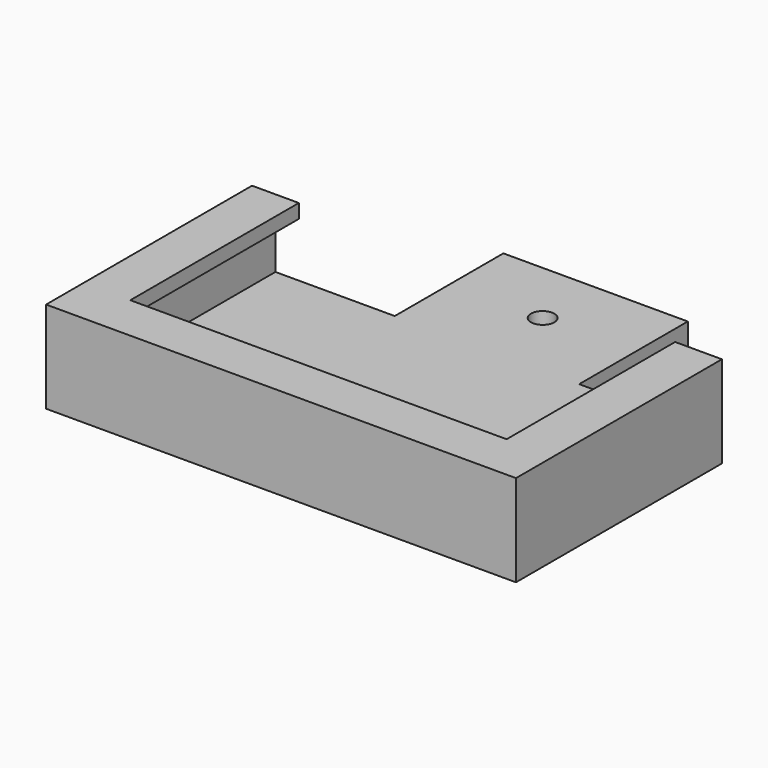
from build123d import *

# Parameters (mm, degrees)
F0_W      = 114.808
F0_H      = 63.5
F1_DEPTH  = 6.35
F2_W      = 6.35
F2_H      = 63.5
F3_DEPTH  = 21.082
F4_W      = 121.158
F4_H      = 6.35
F5_DEPTH  = 21.082
F6_W      = 6.35
F6_H      = 69.85
F7_DEPTH  = 21.082
F8_W      = 6.35
F8_H      = 63.5
F9_DEPTH  = 3.81
F10_W     = 108.458
F10_H     = 6.35
F11_DEPTH = 3.81
F12_W     = 6.35
F12_H     = 57.15
F13_DEPTH = 3.81
F14_W     = 50.0406362116
F14_H     = 73.5886525363
F15_DEPTH = 6.35
F17_D     = 6.35


with BuildPart() as f1:
    # F0 (on Top) → F1 (new body)
    with BuildSketch(Plane.XY):
        Rectangle(F0_W, F0_H)
    extrude(amount=F1_DEPTH)

    # F2 (on Top) → F3 (join)
    with BuildSketch(Plane.XY):
        with Locations((-60.579, 0)):
            Rectangle(F2_W, F2_H)
    extrude(amount=F3_DEPTH)

    # F4 (on Top) → F5 (join)
    with BuildSketch(Plane.XY):
        with Locations((-3.175, -34.925)):
            Rectangle(F4_W, F4_H)
    extrude(amount=F5_DEPTH)

    # F6 (on Top) → F7 (join)
    with BuildSketch(Plane.XY):
        with Locations((60.579, -3.175)):
            Rectangle(F6_W, F6_H)
    extrude(amount=F7_DEPTH)

    # F8 (on face) → F9 (join)
    with BuildSketch(Plane.XY.offset(21.082)):
        with Locations((54.229, 0)):
            Rectangle(F8_W, F8_H)
        Polygon((63.754, -38.1), (63.754, 31.75), (57.404, 31.75), (57.404, -31.75), (51.054, -31.75), (51.054, -38.1), align=None)
    extrude(amount=F9_DEPTH)

    # F10 (on face) → F11 (join)
    with BuildSketch(Plane.XY.offset(21.082)):
        Polygon((-63.754, -25.4), (-63.754, -38.1), (51.054, -38.1), (51.054, -31.75), (-57.404, -31.75), (-57.404, -25.4), align=None)
        with Locations((-3.175, -28.575)):
            Rectangle(F10_W, F10_H)
    extrude(amount=F11_DEPTH)

    # F12 (on face) → F13 (join)
    with BuildSketch(Plane.XY.offset(21.082)):
        with Locations((-60.579, 3.175)):
            Rectangle(F12_W, F12_H)
        with Locations((-54.229, 3.175)):
            Rectangle(F12_W, F12_H)
    extrude(amount=F13_DEPTH)

    # F14 (on Top) → F15 (join)
    with BuildSketch(Plane.XY):
        with Locations((0, 31.7919999361)):
            Rectangle(F14_W, F14_H)
    extrude(amount=F15_DEPTH)

    # F17 (through all)
    with Locations(Plane.XY.offset(6.35)):
        with Locations((0, 50.6303012371)):
            Hole(F17_D / 2)


solid = f1.part
